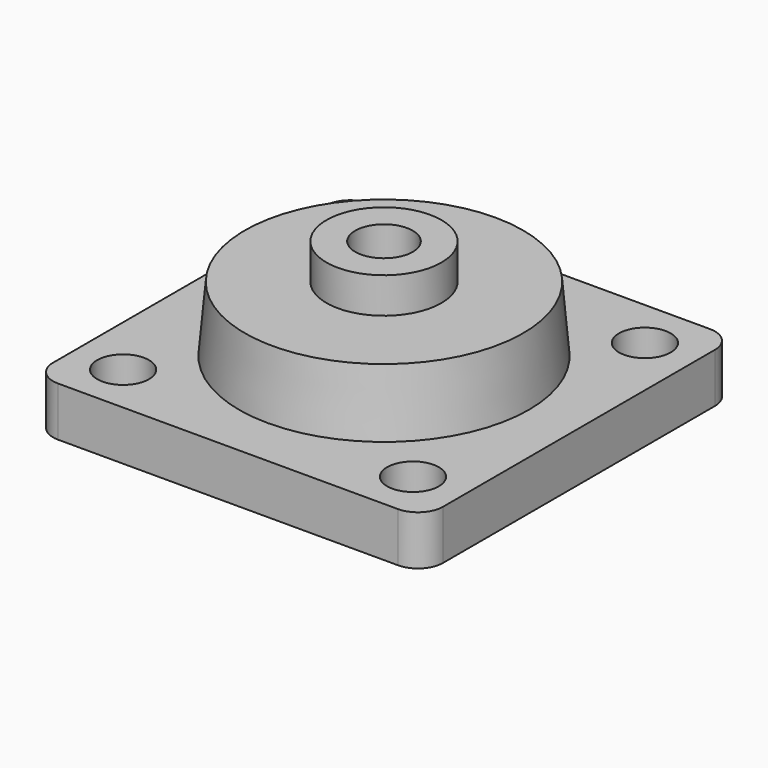
from build123d import *

# Parameters (mm, degrees)
F0_W     = 86.106
F0_H     = 86.106
F1_DEPTH = 10.922
F3_D     = 11.43
F5_DEPTH = 14.478
F5_TAPER = 5
F6_R     = 12.7
F7_DEPTH = 7.874
F9_D     = 12.7
F10_R    = 5.5245


with BuildPart() as f1:
    # F0 (on Top) → F1 (new body)
    with BuildSketch(Plane.XY):
        Rectangle(F0_W, F0_H)
    extrude(amount=F1_DEPTH)

    # F3 (through all)
    with Locations(Plane.XY.offset(10.922)):
        with Locations((-32.004, 32.004), (32.004, 32.004), (32.004, -32.004), (-32.004, -32.004)):
            Hole(F3_D / 2)

    # F4 (on face) → F5 (join)
    with BuildSketch(Plane.XY.offset(10.922)):
        with BuildLine():
            ThreePointArc((32.004, 0), (22.6302453978, 22.6302454524), (-7.72e-08, 32.004))
            ThreePointArc((-7.72e-08, 32.004), (-22.6302453978, -22.6302454524), (32.004, 0))
        make_face()
    extrude(amount=F5_DEPTH, taper=F5_TAPER)

    # F6 (on face) → F7 (join)
    with BuildSketch(Plane.XY.offset(25.4)):
        Circle(F6_R)
    extrude(amount=F7_DEPTH)

    # F9 (through all)
    with Locations(Plane.XY.offset(33.274)):
        with Locations((0, 0)):
            Hole(F9_D / 2)

    # F10
    f10_edges = [f1.edges().sort_by_distance(p)[0] for p in [
        (43.053, 43.053, 5.461),
        (43.053, -43.053, 5.461),
        (-43.053, -43.053, 5.461),
        (-43.053, 43.053, 5.461),
    ]]
    fillet(f10_edges, radius=F10_R)


solid = f1.part
